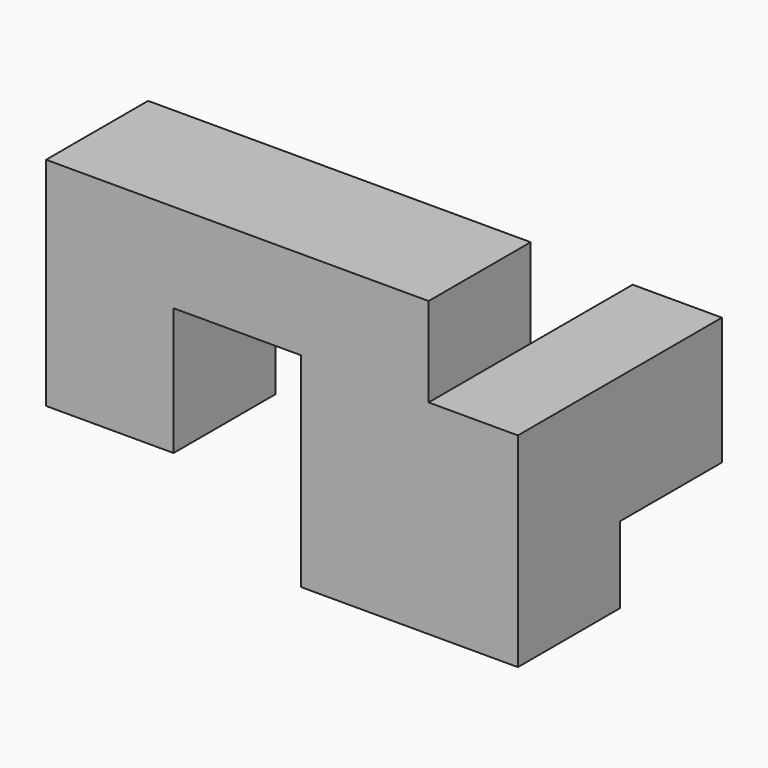
from build123d import *

# Parameters (mm, degrees)
F0_W      = 25.4
F0_H      = 25.3999925918
F1_DEPTH  = 17.78
F2_DEPTH  = 25.4
F3_W      = 17.78
F3_H      = 25.4
F4_DEPTH  = 15.24
F6_DEPTH  = 25.4
F7_W      = 25.4
F7_H      = 25.4
F8_DEPTH  = 17.78
F9_W      = 25.4
F9_H      = 17.78
F10_DEPTH = 50.8
F11_W     = 25.4
F11_H     = 25.4
F12_DEPTH = 25.4


with BuildPart() as f1:
    # F0 (on Right) → F1 (new body)
    with BuildSketch(Plane.YZ):
        with Locations((39.7640056908, 21.4484632015)):
            Rectangle(F0_W, F0_H)
    extrude(amount=F1_DEPTH)

    # F2 (add): a face of the model
    f2_faces = [f1.faces().sort_by_distance(p)[0] for p in [
        (8.89, 27.0640056908, 21.4484632015),
    ]]
    extrude(f2_faces, amount=F2_DEPTH)

    # F3 (on face) → F4 (join)
    with BuildSketch(Plane(origin=(0, 0, 8.7484669056), x_dir=(1, 0, 0), z_dir=(0, 0, -1))):
        with Locations((8.89, -14.3640056908)):
            Rectangle(F3_W, F3_H)
    extrude(amount=F4_DEPTH)

    # F5 (on face) → F6 (join)
    with BuildSketch(Plane(origin=(0, 0, 0), x_dir=(0, -1, 0), z_dir=(-1, 0, 0))):
        Polygon((-27.0640056908, 34.1484594974), (-27.0640056908, 8.7484669056), (-27.0640056908, -6.4915330944), (-1.6640056908, -6.4915330944), (-1.6640056908, 34.1484594974), align=None)
    extrude(amount=F6_DEPTH)

    # F7 (on face) → F8 (join)
    with BuildSketch(Plane.XY.offset(34.1484594974)):
        with Locations((-12.7, 14.3640056908)):
            Rectangle(F7_W, F7_H)
    extrude(amount=F8_DEPTH)

    # F9 (on face) → F10 (join)
    with BuildSketch(Plane(origin=(-25.4, 0, 0), x_dir=(0, -1, 0), z_dir=(-1, 0, 0))):
        with Locations((-14.3640056908, 43.0384594974)):
            Rectangle(F9_W, F9_H)
    extrude(amount=F10_DEPTH)

    # F11 (on face) → F12 (join)
    with BuildSketch(Plane(origin=(0, 0, 34.1484594974), x_dir=(1, 0, 0), z_dir=(0, 0, -1))):
        with Locations((-63.5, -14.3640056908)):
            Rectangle(F11_W, F11_H)
    extrude(amount=F12_DEPTH)


solid = f1.part
